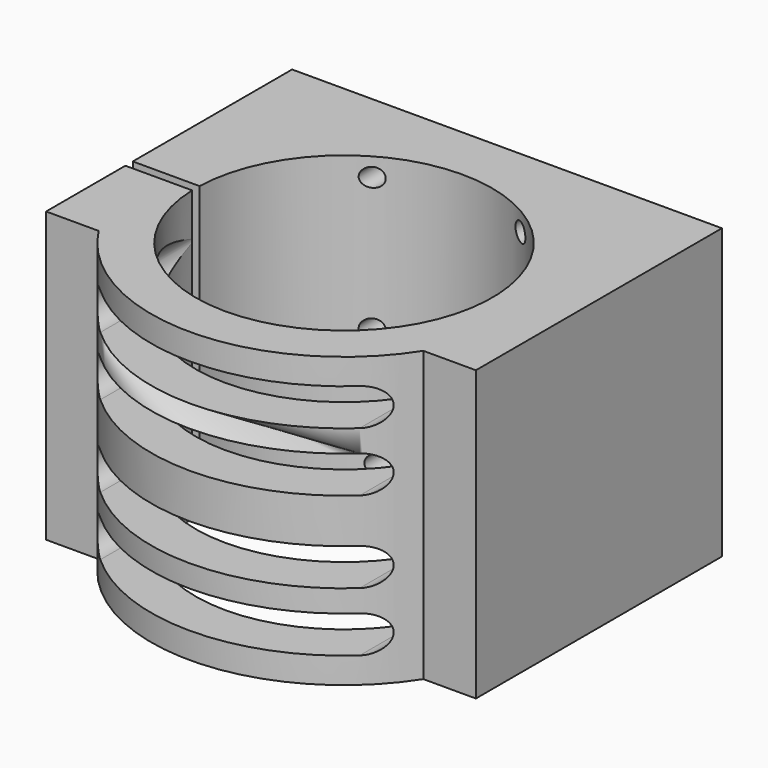
from build123d import *

# Parameters (mm, degrees)
F1_DEPTH = 78
F2_R     = 4
F3_DEPTH = 13.501
F4_W     = 17
F4_H     = 13.5
F5_DEPTH = 78.001
F7_DEPTH = 52.001
F8_R     = 2.5
F9_DEPTH = 25


with BuildPart() as f1:
    # F0 (on Top) → F1 (new body)
    with BuildSketch(Plane.XY):
        with BuildLine():
            ThreePointArc((-39.980464, 1.25), (40, 0), (-39.980464, -1.25))
            Line((-39.980464, -1.25), (-58, -1.25))
            Line((-58, -1.25), (-58, -28))
            Line((-58, -28), (-43.817805, -28))
            ThreePointArc((-43.817805, -28), (0, -52), (43.817805, -28))
            Line((43.817805, -28), (58, -28))
            Line((58, -28), (58, 41.5))
            Line((58, 41.5), (75, 41.5))
            Line((75, 41.5), (75, 55))
            Line((75, 55), (-75, 55))
            Line((-75, 55), (-75, 41.5))
            Line((-75, 41.5), (-58, 41.5))
            Line((-58, 41.5), (-58, 1.25))
            Line((-58, 1.25), (-39.980464, 1.25))
        make_face()
    extrude(amount=F1_DEPTH)

    # F2 (on face) → F3 (cut, through all)
    with BuildSketch(Plane.XZ.offset(-41.5)):
        with Locations((-67, 69)):
            Circle(F2_R)
        with Locations((-67, 39)):
            Circle(F2_R)
        with Locations((-67, 9)):
            Circle(F2_R)
        with Locations((67, 9)):
            Circle(F2_R)
        with Locations((67, 39)):
            Circle(F2_R)
        with Locations((67, 69)):
            Circle(F2_R)
    extrude(amount=-F3_DEPTH, mode=Mode.SUBTRACT)

    # F4 (on face) → F5 (cut, through all)
    with BuildSketch(Plane.XY.offset(78)):
        with Locations((-66.5, 48.25)):
            Rectangle(F4_W, F4_H)
        with Locations((66.5, 48.25)):
            Rectangle(F4_W, F4_H)
    extrude(amount=-F5_DEPTH, mode=Mode.SUBTRACT)

    # F6 (on Front) → F7 (cut, through all)
    with BuildSketch(Plane.XZ):
        with BuildLine():
            ThreePointArc((-35, 71), (-40, 66), (-35, 61))
            Line((-35, 61), (35, 61))
            ThreePointArc((35, 61), (40, 66), (35, 71))
            Line((35, 71), (-35, 71))
        make_face()
        with BuildLine():
            ThreePointArc((-35, 55), (-40, 50), (-35, 45))
            Line((-35, 45), (35, 45))
            ThreePointArc((35, 45), (40, 50), (35, 55))
            Line((35, 55), (-35, 55))
        make_face()
        with BuildLine():
            ThreePointArc((-35, 17), (-40, 12), (-35, 7))
            Line((-35, 7), (35, 7))
            ThreePointArc((35, 7), (40, 12), (35, 17))
            Line((35, 17), (-35, 17))
        make_face()
        with BuildLine():
            ThreePointArc((-35, 33), (-40, 28), (-35, 23))
            Line((-35, 23), (35, 23))
            ThreePointArc((35, 23), (40, 28), (35, 33))
            Line((35, 33), (-35, 33))
        make_face()
    extrude(amount=F7_DEPTH, mode=Mode.SUBTRACT)

    # F8 (on face) → F9 (cut)
    with BuildSketch(Plane(origin=(0, 55, 0), x_dir=(-1, 0, 0), z_dir=(0, 1, 0))):
        with Locations((-52, 73)):
            Circle(F8_R)
        with Locations((-20, 73)):
            Circle(F8_R)
        with Locations((-20, 37)):
            Circle(F8_R)
        with Locations((-52, 37)):
            Circle(F8_R)
        with Locations((20, 73)):
            Circle(F8_R)
        with Locations((20, 37)):
            Circle(F8_R)
        with Locations((52, 37)):
            Circle(F8_R)
        with Locations((52, 73)):
            Circle(F8_R)
        with Locations((-19, 27)):
            Circle(F8_R)
        with Locations((-19, 5)):
            Circle(F8_R)
        with Locations((19, 5)):
            Circle(F8_R)
        with Locations((19, 27)):
            Circle(F8_R)
    extrude(amount=-F9_DEPTH, mode=Mode.SUBTRACT)


solid = f1.part
